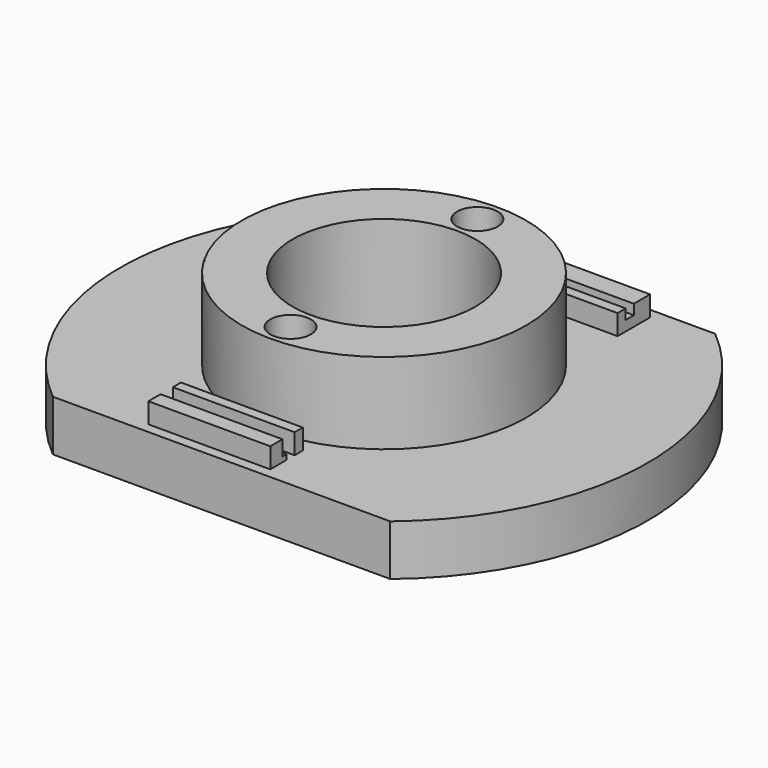
from build123d import *

# Parameters (mm, degrees)
CYLINDER004_R             = 2
CYLINDER004_DEPTH         = 22
CYLINDER005_R             = 2
CYLINDER005_DEPTH         = 22
BOX009_W                  = 46
BOX009_H                  = 10
BOX009_DEPTH              = 10
BOX007_W                  = 46
BOX007_H                  = 10
BOX007_DEPTH              = 10
BOX008_W                  = 54
BOX008_H                  = 53
BOX008_DEPTH              = 15
BOX002_W                  = 5
BOX002_H                  = 10
BOX002_DEPTH              = 13
BOX001_W                  = 23
BOX001_H                  = 1
BOX001_DEPTH              = 13
BOX_W                     = 25
BOX_H                     = 1
BOX_DEPTH                 = 14
BOX003_W                  = 38
BOX003_H                  = 1
BOX003_DEPTH              = 12
BOX004_W                  = 34
BOX004_H                  = 1
BOX004_DEPTH              = 10
FUSION001_PLACEMENT_ANGLE = 180
CYLINDER_R                = 9
CYLINDER_DEPTH            = 28
CYLINDER002_R             = 26
CYLINDER002_DEPTH         = 5
CYLINDER001_R             = 14
CYLINDER001_DEPTH         = 14
CYLINDER003_R             = 26
CYLINDER003_DEPTH         = 5
BOX005_W                  = 23
BOX005_H                  = 4
BOX005_DEPTH              = 2
BOX006_W                  = 12
BOX006_H                  = 4
BOX006_DEPTH              = 2


with BuildPart() as cilindro004:
    # Cylinder004 → Cylinder004 (new body)
    with BuildSketch(Plane(origin=(23, 7.5, -10), x_dir=(1, 0, 0), z_dir=(0, 0, 1))):
        Circle(CYLINDER004_R)
    extrude(amount=CYLINDER004_DEPTH)


with BuildPart() as cilindro005:
    # Cylinder005 → Cylinder005 (new body)
    with BuildSketch(Plane(origin=(23, 30.5, -10), x_dir=(1, 0, 0), z_dir=(0, 0, 1))):
        Circle(CYLINDER005_R)
    extrude(amount=CYLINDER005_DEPTH)


with BuildPart() as cubo009:
    # Box009 → Box009 (new body)
    with BuildSketch(Plane(origin=(0, 39, -6), x_dir=(1, 0, 0), z_dir=(0, 0, 1))):
        with Locations((23, 5)):
            Rectangle(BOX009_W, BOX009_H)
    extrude(amount=BOX009_DEPTH)


with BuildPart() as cubo007:
    # Box007 → Box007 (new body)
    with BuildSketch(Plane(origin=(0, -11, -6), x_dir=(1, 0, 0), z_dir=(0, 0, 1))):
        with Locations((23, 5)):
            Rectangle(BOX007_W, BOX007_H)
    extrude(amount=BOX007_DEPTH)


with BuildPart() as cubo008:
    # Box008 → Box008 (new body)
    with BuildSketch(Plane(origin=(-4, -8, 8), x_dir=(1, 0, 0), z_dir=(0, 0, 1))):
        with Locations((27, 26.5)):
            Rectangle(BOX008_W, BOX008_H)
    extrude(amount=BOX008_DEPTH)


with BuildPart() as cubo002:
    # Box002 → Box002 (new body)
    with BuildSketch(Plane(origin=(1, 0, 0.5), x_dir=(1, 0, 0), z_dir=(0, 0, 1))):
        with Locations((2.5, 5)):
            Rectangle(BOX002_W, BOX002_H)
    extrude(amount=BOX002_DEPTH)


with BuildPart() as cubo001:
    # Box001 → Box001 (new body)
    with BuildSketch(Plane(origin=(0.5, -0.5, 0.5), x_dir=(1, 0, 0), z_dir=(0, 0, 1))):
        with Locations((11.5, 0.5)):
            Rectangle(BOX001_W, BOX001_H)
    extrude(amount=BOX001_DEPTH)


with BuildPart() as fusion:
    # Box → Box (new body)
    with BuildSketch(Plane.XY):
        with Locations((12.5, 0.5)):
            Rectangle(BOX_W, BOX_H)
    extrude(amount=BOX_DEPTH)

    # Fusion: union Cubo002, Cubo001
    add(cubo002.part)
    add(cubo001.part)


with BuildPart() as fusion_1:
    # Fusion placement: moved
    add(fusion.part.moved(Location((5, 2, 0))))


with BuildPart() as cubo003:
    # Box003 → Box003 (new body)
    with BuildSketch(Plane.XY):
        with Locations((19, 0.5)):
            Rectangle(BOX003_W, BOX003_H)
    extrude(amount=BOX003_DEPTH)


with BuildPart() as display:
    # Box004 → Box004 (new body)
    with BuildSketch(Plane(origin=(3, -0.5, 1), x_dir=(1, 0, 0), z_dir=(0, 0, 1))):
        with Locations((17, 0.5)):
            Rectangle(BOX004_W, BOX004_H)
    extrude(amount=BOX004_DEPTH)

    # Fusion001: union Cubo003
    add(cubo003.part)


with BuildPart() as display_1:
    # Fusion001 placement: moved
    add(display.part.moved(Location((4, 36, 13))).rotate(Axis((4, 36, 13), (1, 0, 0)), FUSION001_PLACEMENT_ANGLE))


with BuildPart() as cilindro:
    # Cylinder → Cylinder (new body)
    with BuildSketch(Plane(origin=(23, 19, -7), x_dir=(1, 0, 0), z_dir=(0, 0, 1))):
        Circle(CYLINDER_R)
    extrude(amount=CYLINDER_DEPTH)


with BuildPart() as cilindro002:
    # Cylinder002 → Cylinder002 (new body)
    with BuildSketch(Plane(origin=(23, 19, -5), x_dir=(1, 0, 0), z_dir=(0, 0, 1))):
        Circle(CYLINDER002_R)
    extrude(amount=CYLINDER002_DEPTH)


with BuildPart() as cilindro001:
    # Cylinder001 → Cylinder001 (new body)
    with BuildSketch(Plane(origin=(23, 19, 0), x_dir=(1, 0, 0), z_dir=(0, 0, 1))):
        Circle(CYLINDER001_R)
    extrude(amount=CYLINDER001_DEPTH)


with BuildPart() as cut:
    # Cylinder003 → Cylinder003 (new body)
    with BuildSketch(Plane(origin=(23, 19, 14), x_dir=(1, 0, 0), z_dir=(0, 0, 1))):
        Circle(CYLINDER003_R)
    extrude(amount=CYLINDER003_DEPTH)

    # Fusion002: union Cilindro002, Cilindro001
    add(cilindro002.part)
    add(cilindro001.part)

    # Cut: cut Cilindro
    add(cilindro.part, mode=Mode.SUBTRACT)


with BuildPart() as cut001:
    # Box005 → Box005 (new body)
    with BuildSketch(Plane(origin=(11, 34, 0), x_dir=(1, 0, 0), z_dir=(0, 0, 1))):
        with Locations((11.5, 2)):
            Rectangle(BOX005_W, BOX005_H)
    extrude(amount=BOX005_DEPTH)

    # Fusion003: union Cut
    add(cut.part)

    # Cut001: cut Display
    add(display_1.part, mode=Mode.SUBTRACT)


with BuildPart() as cut007:
    # Box006 → Box006 (new body)
    with BuildSketch(Plane(origin=(15, 0, 0), x_dir=(1, 0, 0), z_dir=(0, 0, 1))):
        with Locations((6, 2)):
            Rectangle(BOX006_W, BOX006_H)
    extrude(amount=BOX006_DEPTH)

    # Fusion004: union Cut001
    add(cut001.part)

    # Cut002: cut Fusion
    add(fusion_1.part, mode=Mode.SUBTRACT)

    # Cut003: cut Cubo008
    add(cubo008.part, mode=Mode.SUBTRACT)

    # Cut004: cut Cubo007
    add(cubo007.part, mode=Mode.SUBTRACT)

    # Cut005: cut Cubo009
    add(cubo009.part, mode=Mode.SUBTRACT)

    # Cut006: cut Cilindro005
    add(cilindro005.part, mode=Mode.SUBTRACT)

    # Cut007: cut Cilindro004
    add(cilindro004.part, mode=Mode.SUBTRACT)


solid = cut007.part
